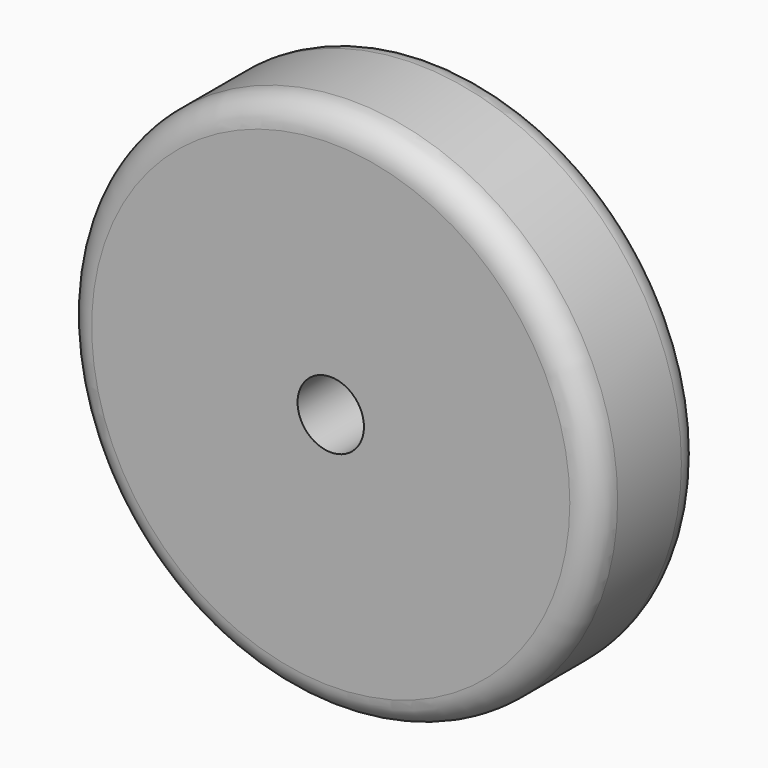
from build123d import *

# Parameters (mm, degrees)
F0_R     = 50.8
F1_DEPTH = 25.4
F2_R     = 5.08
F3_R     = 6.35
F4_DEPTH = 25.401


with BuildPart() as f1:
    # F0 (on Front) → F1 (new body)
    with BuildSketch(Plane.XZ):
        Circle(F0_R)
    extrude(amount=F1_DEPTH)

    # F2
    f2_edges = [f1.edges().sort_by_distance(p)[0] for p in [
        (-50.8, -25.4, 0),
        (-50.8, 0, 0),
    ]]
    fillet(f2_edges, radius=F2_R)

    # F3 (on face) → F4 (cut, through all)
    with BuildSketch(Plane.XZ.offset(25.4)):
        Circle(F3_R)
    extrude(amount=-F4_DEPTH, mode=Mode.SUBTRACT)


solid = f1.part
